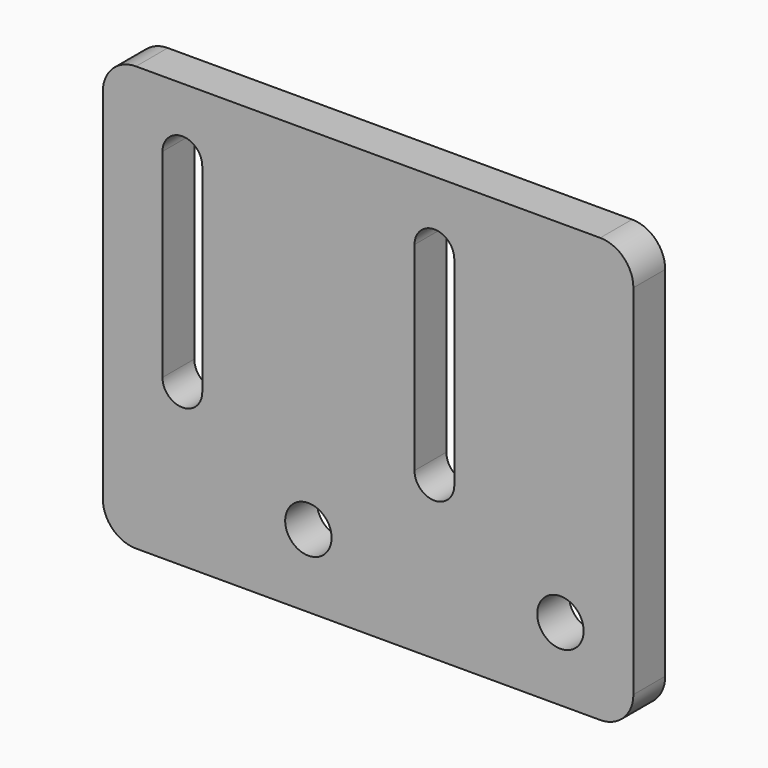
from build123d import *

# Parameters (mm, degrees)
F0_R     = 1.75
F1_DEPTH = 3


with BuildPart() as f1:
    # F0 (on Front) → F1 (new body)
    with BuildSketch(Plane.XZ):
        with BuildLine():
            Line((-22.5, -5.5), (12.5, -5.5))
            ThreePointArc((12.5, -5.5), (14.267767, -4.767767), (15, -3))
            Line((15, -3), (15, 24))
            ThreePointArc((15, 24), (14.267767, 25.767767), (12.5, 26.5))
            Line((12.5, 26.5), (-22.5, 26.5))
            ThreePointArc((-22.5, 26.5), (-24.267767, 25.767767), (-25, 24))
            Line((-25, 24), (-25, -3))
            ThreePointArc((-25, -3), (-24.267767, -4.767767), (-22.5, -5.5))
        make_face()
        with Locations((-9.5, 0)):
            Circle(F0_R, mode=Mode.SUBTRACT)
        with Locations((9.5, 0)):
            Circle(F0_R, mode=Mode.SUBTRACT)
        with BuildLine():
            Line((-20.5, 6.5), (-20.5, 21.5))
            ThreePointArc((-20.5, 21.5), (-19, 23), (-17.5, 21.5))
            Line((-17.5, 21.5), (-17.5, 6.5))
            ThreePointArc((-17.5, 6.5), (-19, 5), (-20.5, 6.5))
        make_face(mode=Mode.SUBTRACT)
        with BuildLine():
            Line((1.5, 21.5), (1.5, 6.5))
            ThreePointArc((1.5, 6.5), (0, 5), (-1.5, 6.5))
            Line((-1.5, 6.5), (-1.5, 21.5))
            ThreePointArc((-1.5, 21.5), (0, 23), (1.5, 21.5))
        make_face(mode=Mode.SUBTRACT)
    extrude(amount=F1_DEPTH)


solid = f1.part
